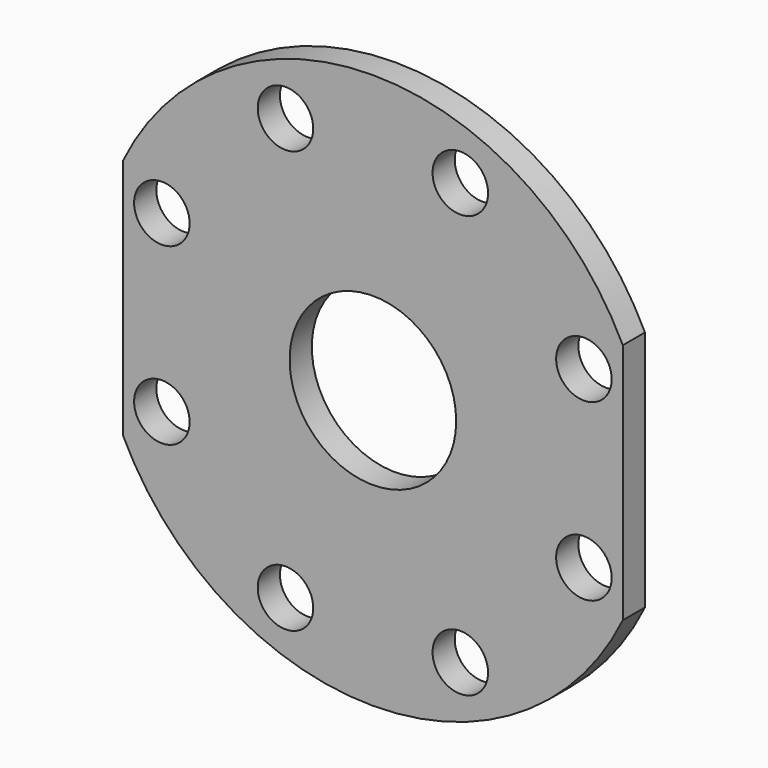
from build123d import *

# Parameters (mm, degrees)
F0_R     = 100
F2_DEPTH = 10
F3_DEPTH = 10.001
F4_R     = 10
F5_DEPTH = 25
F6_R     = 30
F7_DEPTH = 25


with BuildPart() as f2:
    # F0 (on Front) → F2 (new body)
    with BuildSketch(Plane.XZ):
        Circle(F0_R)
    extrude(amount=F2_DEPTH)

    # F1 (on face) → F3 (cut, through all)
    with BuildSketch(Plane.XZ):
        with BuildLine():
            ThreePointArc((-90, 43.5889894354), (-53.1088554596, 84.7316320613), (0, 100))
            Line((0, 100), (-90, 100))
            Line((-90, 100), (-90, 43.5889894354))
        make_face()
        with BuildLine():
            Line((-90, -43.5889894354), (-90, 43.5889894354))
            ThreePointArc((-90, 43.5889894354), (-100, 0), (-90, -43.5889894354))
        make_face()
        with BuildLine():
            ThreePointArc((100, 0), (97.4679434481, 22.360679775), (90, 43.5889894354))
            Line((90, 43.5889894354), (90, -43.5889894354))
            ThreePointArc((90, -43.5889894354), (97.4679434481, -22.360679775), (100, 0))
        make_face()
    extrude(amount=F3_DEPTH, mode=Mode.SUBTRACT)

    # F4 (on face) → F5 (cut)
    with BuildSketch(Plane.XZ.offset(10)):
        with Locations((-76, 31.4802307404)):
            Circle(F4_R)
        with Locations((-76, -31.4802307404)):
            Circle(F4_R)
        with Locations((-31.4802307404, -76)):
            Circle(F4_R)
        with Locations((31.4802307404, -76)):
            Circle(F4_R)
        with Locations((76, -31.4802307404)):
            Circle(F4_R)
        with Locations((76, 31.4802307404)):
            Circle(F4_R)
        with Locations((31.4802307404, 76)):
            Circle(F4_R)
        with Locations((-31.4802307404, 76)):
            Circle(F4_R)
    extrude(amount=-F5_DEPTH, mode=Mode.SUBTRACT)

    # F6 (on face) → F7 (cut)
    with BuildSketch(Plane.XZ.offset(10)):
        Circle(F6_R)
    extrude(amount=-F7_DEPTH, mode=Mode.SUBTRACT)


solid = f2.part
